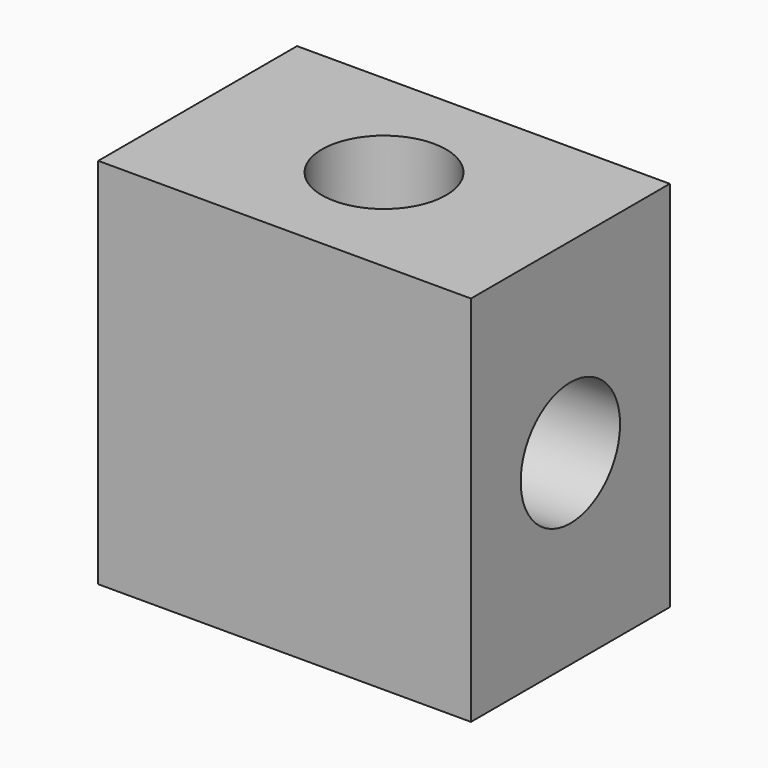
from build123d import *

# Parameters (mm, degrees)
F0_W     = 15
F0_H     = 15
F1_DEPTH = 5
F2_R     = 2.5
F3_DEPTH = 15
F4_R     = 2.5
F5_DEPTH = 15


with BuildPart() as f1:
    # F0 (on Front) → F1 (new body, symmetric)
    with BuildSketch(Plane.XZ):
        Rectangle(F0_W, F0_H)
    extrude(amount=F1_DEPTH, both=True)

    # F2 (on face) → F3 (cut, through all)
    with BuildSketch(Plane.YZ.offset(7.5)):
        Circle(F2_R)
    extrude(amount=-F3_DEPTH, mode=Mode.SUBTRACT)

    # F4 (on face) → F5 (cut, through all)
    with BuildSketch(Plane.XY.offset(7.5)):
        Circle(F4_R)
    extrude(amount=-F5_DEPTH, mode=Mode.SUBTRACT)


solid = f1.part
